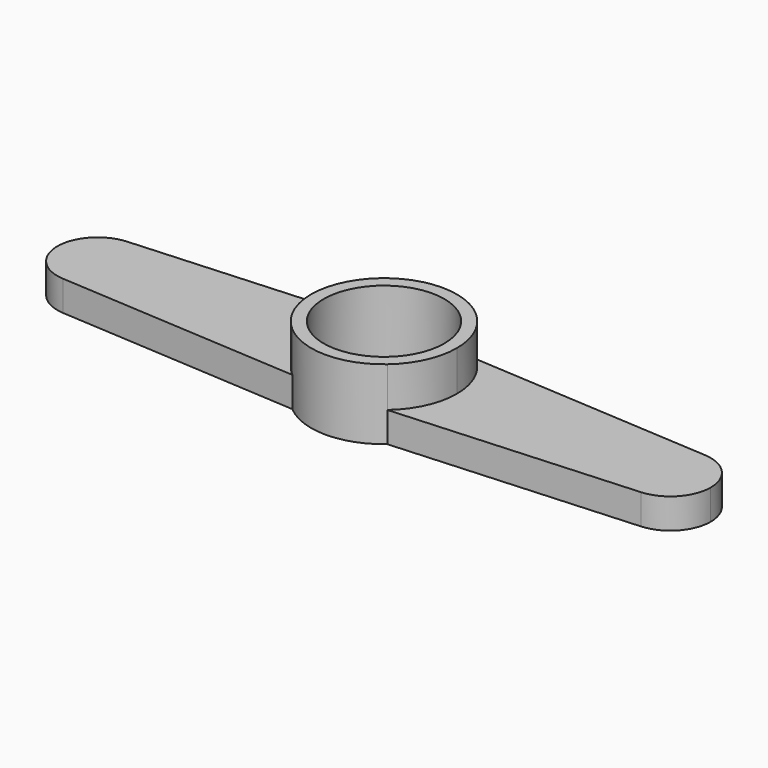
from build123d import *

# Parameters (mm, degrees)
F0_R     = 3
F1_DEPTH = 3.5
F2_DEPTH = 1.5


with BuildPart() as f1:
    # F0 (on Top) → F1 (new body)
    with BuildSketch(Plane.XY):
        with BuildLine():
            ThreePointArc((2.361805, -2.75), (3.294098, -1.513123), (3.625, 0))
            ThreePointArc((3.625, 0), (3.294098, 1.513123), (2.361805, 2.75))
            ThreePointArc((2.361805, 2.75), (0, 3.625), (-2.361805, 2.75))
            ThreePointArc((-2.361805, 2.75), (-3.625, 0), (-2.361805, -2.75))
            ThreePointArc((-2.361805, -2.75), (0, -3.625), (2.361805, -2.75))
        make_face()
        Circle(F0_R, mode=Mode.SUBTRACT)
    extrude(amount=F1_DEPTH)

    # F0 (on Top) → F2 (join)
    with BuildSketch(Plane.XY):
        with BuildLine():
            ThreePointArc((-2.361805, -2.75), (-3.625, 0), (-2.361805, 2.75))
            Line((-2.361805, 2.75), (-14.375267, 1.996073))
            ThreePointArc((-14.375267, 1.996073), (-12.880791, 1.45783), (-12.25, 0))
            ThreePointArc((-12.25, 0), (-12.880791, -1.45783), (-14.375267, -1.996073))
            Line((-14.375267, -1.996073), (-2.361805, -2.75))
        make_face()
        with BuildLine():
            ThreePointArc((-12.25, 0), (-12.880791, 1.45783), (-14.375267, 1.996073))
            ThreePointArc((-14.375267, 1.996073), (-16.25, 0), (-14.375267, -1.996073))
            ThreePointArc((-14.375267, -1.996073), (-12.880791, -1.45783), (-12.25, 0))
        make_face()
        with BuildLine():
            ThreePointArc((2.361805, 2.75), (3.294098, 1.513123), (3.625, 0))
            ThreePointArc((3.625, 0), (3.294098, -1.513123), (2.361805, -2.75))
            Line((2.361805, -2.75), (14.375267, -1.996073))
            ThreePointArc((14.375267, -1.996073), (12.25, 0), (14.375267, 1.996073))
            Line((14.375267, 1.996073), (2.361805, 2.75))
        make_face()
        with BuildLine():
            ThreePointArc((16.25, 0), (15.70783, 1.369209), (14.375267, 1.996073))
            ThreePointArc((14.375267, 1.996073), (12.25, 0), (14.375267, -1.996073))
            ThreePointArc((14.375267, -1.996073), (15.70783, -1.369209), (16.25, 0))
        make_face()
    extrude(amount=F2_DEPTH)


solid = f1.part
